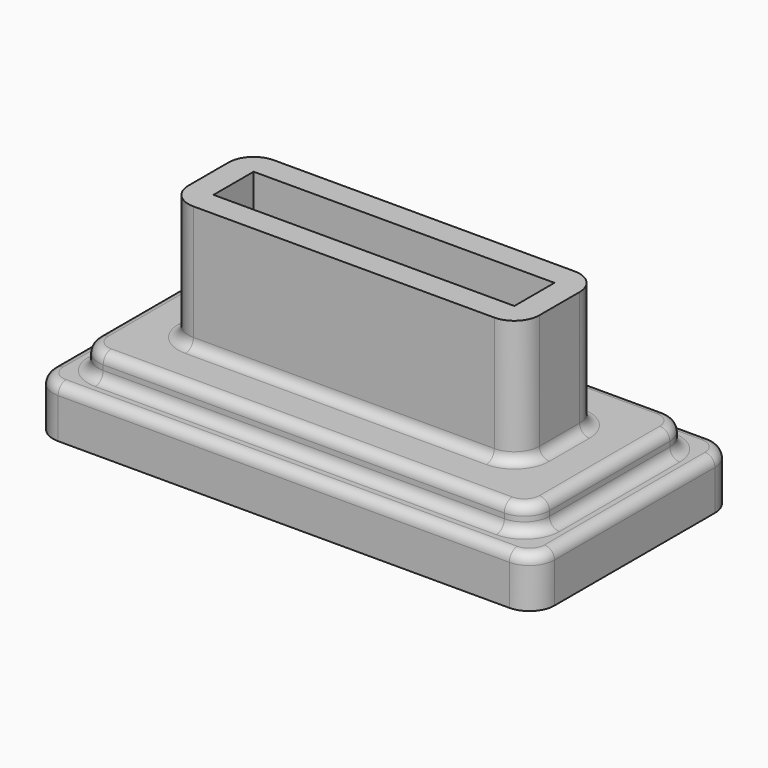
from build123d import *

# Parameters (mm, degrees)
F0_W     = 100
F0_H     = 50
F1_DEPTH = 10
F2_W     = 90
F2_H     = 40
F3_DEPTH = 5
F4_W     = 70
F4_H     = 20
F5_DEPTH = 25
F6_W     = 60
F6_H     = 10
F7_DEPTH = 25
F8_R     = 5
F9_R     = 5
F10_R    = 5
F11_R    = 2


with BuildPart() as f1:
    # F0 (on Top) → F1 (new body)
    with BuildSketch(Plane.XY):
        with Locations((2.482289, 1.45373)):
            Rectangle(F0_W, F0_H)
    extrude(amount=F1_DEPTH)

    # F2 (on face) → F3 (join)
    with BuildSketch(Plane.XY.offset(10)):
        with Locations((2.482289, 1.45373)):
            Rectangle(F2_W, F2_H)
    extrude(amount=F3_DEPTH)

    # F4 (on face) → F5 (join)
    with BuildSketch(Plane.XY.offset(15)):
        with Locations((2.482289, 1.45373)):
            Rectangle(F4_W, F4_H)
    extrude(amount=F5_DEPTH)

    # F6 (on face) → F7 (cut)
    with BuildSketch(Plane.XY.offset(40)):
        with Locations((2.482289, 1.45373)):
            Rectangle(F6_W, F6_H)
    extrude(amount=-F7_DEPTH, mode=Mode.SUBTRACT)

    # F8
    f8_edges = [f1.edges().sort_by_distance(p)[0] for p in [
        (37.482289, -8.54627, 27.5),
        (37.482289, 11.45373, 27.5),
        (-32.517711, -8.54627, 27.5),
        (-32.517711, 11.45373, 27.5),
    ]]
    fillet(f8_edges, radius=F8_R)

    # F9
    f9_edges = [f1.edges().sort_by_distance(p)[0] for p in [
        (52.482289, 26.45373, 5),
        (-47.517711, -23.54627, 5),
        (-47.517711, 26.45373, 5),
        (52.482289, -23.54627, 5),
    ]]
    fillet(f9_edges, radius=F9_R)

    # F10
    f10_edges = [f1.edges().sort_by_distance(p)[0] for p in [
        (47.482289, -18.54627, 12.5),
        (-42.517711, -18.54627, 12.5),
        (47.482289, 21.45373, 12.5),
        (-42.517711, 21.45373, 12.5),
    ]]
    fillet(f10_edges, radius=F10_R)

    # F11
    f11_edges = [f1.edges().sort_by_distance(p)[0] for p in [
        (2.482289, 11.45373, 15),
        (2.482289, 21.45373, 15),
        (2.482289, 21.45373, 10),
        (2.482289, 26.45373, 10),
    ]]
    fillet(f11_edges, radius=F11_R)


solid = f1.part
